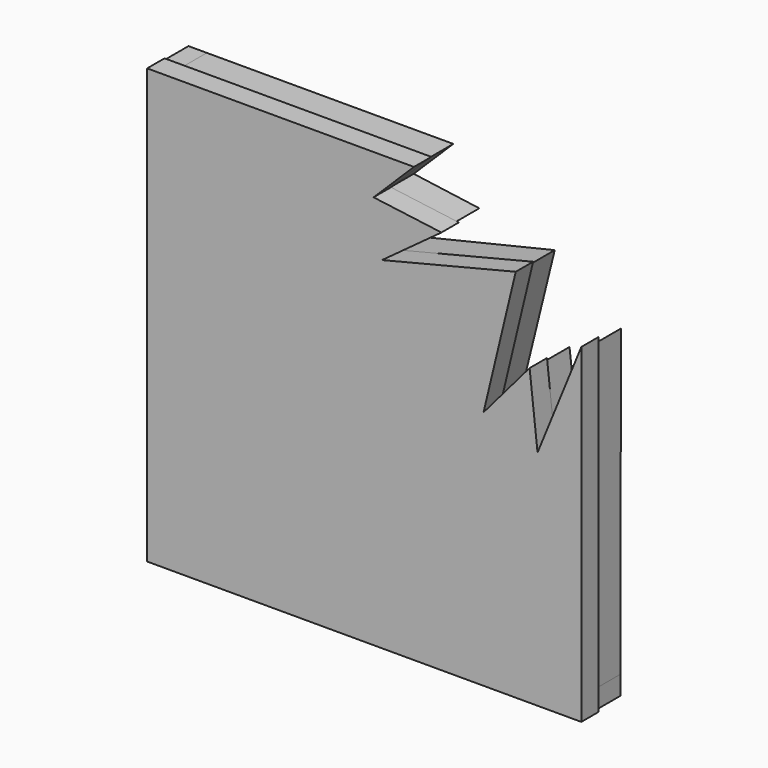
from build123d import *

# Parameters (mm, degrees)
F0_W     = 152.209915
F0_H     = 152.209915
F1_DEPTH = 7.62
F3_DEPTH = 7.62
F4_W     = 6.424934
F4_H     = 7.163491
F4_H_2   = 137.427088
F4_W_2   = 139.438458
F4_H_3   = 6.655872
F4_W_3   = 5.60908
F5_DEPTH = 10.16


with BuildPart() as f1:
    # F0 (on Front) → F1 (new body)
    with BuildSketch(Plane.XZ):
        with Locations((-0.173558, 0.173558)):
            Rectangle(F0_W, F0_H)
    extrude(amount=F1_DEPTH)

    # F2 (on Front) → F3 (cut)
    with BuildSketch(Plane.XZ):
        Polygon((60.583096, 2.209843), (76.038271, 40.064868), (76.211937, 76.357067), (17.343326, 76.357067), (3.103723, 62.291671), (26.894279, 59.166025), (6.055835, 43.885101), (52.942332, 55.519439), (41.654844, 8.461132), (57.804637, 27.388643), align=None)
    extrude(amount=F3_DEPTH, mode=Mode.SUBTRACT)

    # F4 (on Front) → F5 (join)
    with BuildSketch(Plane.XZ):
        with Locations((-72.797306, 72.428027)):
            Rectangle(F4_W, F4_H)
        Polygon((9.771794, 76.009773), (-69.584839, 76.009773), (-69.584839, 68.846282), (-69.584839, -68.580806), (69.853619, -68.580806), (75.462699, -68.580806), (75.572275, 38.133189), (60.446158, 1.799743), (57.562228, 26.590804), (41.742637, 7.708041), (40.805306, 7.83694), (52.3897, 54.794144), (5.653567, 43.706257), (25.945945, 59.105508), (2.954097, 62.26727), (16.829018, 76.009773), align=None)
        with Locations((-72.797306, 0.132738)):
            Rectangle(F4_W, F4_H_2)
        Polygon((-69.584839, -68.580806), (-76.009773, -68.580806), (-76.009773, -68.638086), (-76.009773, -75.236678), (-69.584839, -75.236678), align=None)
        with Locations((0.13439, -71.908742)):
            Rectangle(F4_W_2, F4_H_3)
        with Locations((72.658159, -71.908742)):
            Rectangle(F4_W_3, F4_H_3)
    extrude(amount=-F5_DEPTH)


solid = f1.part
